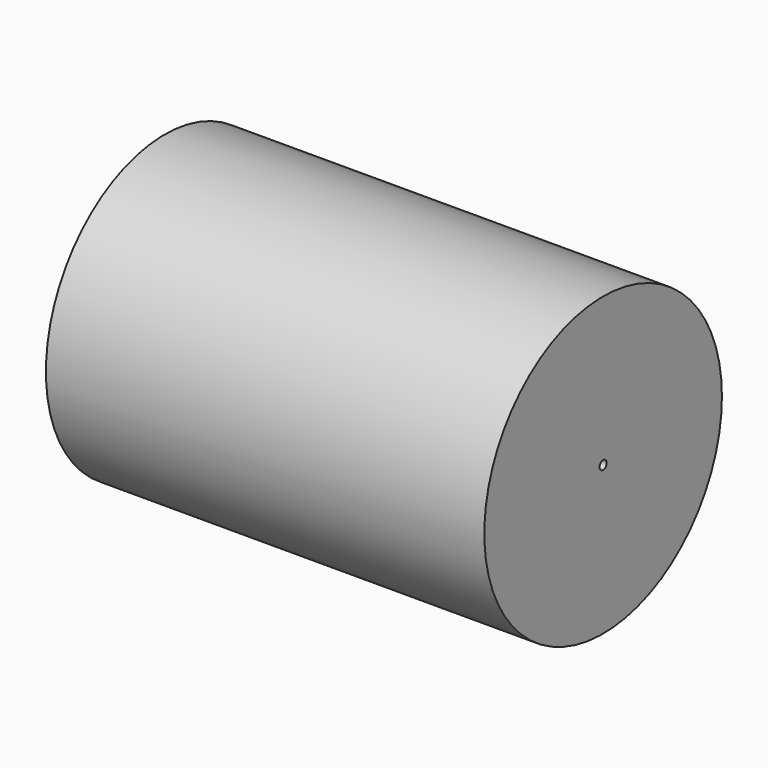
from build123d import *

# Parameters (mm, degrees)
F0_R     = 266.7
F2_DEPTH = 787.4
F3_D     = 15.875


with BuildPart() as f2:
    # F0 (on Right) → F2 (new body)
    with BuildSketch(Plane.YZ):
        Circle(F0_R)
    extrude(amount=F2_DEPTH)

    # F3 (through all)
    with Locations(Plane(origin=(0, 0, 0), x_dir=(0, 1, 0), z_dir=(-1, 0, 0))):
        with Locations((0, 0)):
            Hole(F3_D / 2)


solid = f2.part
